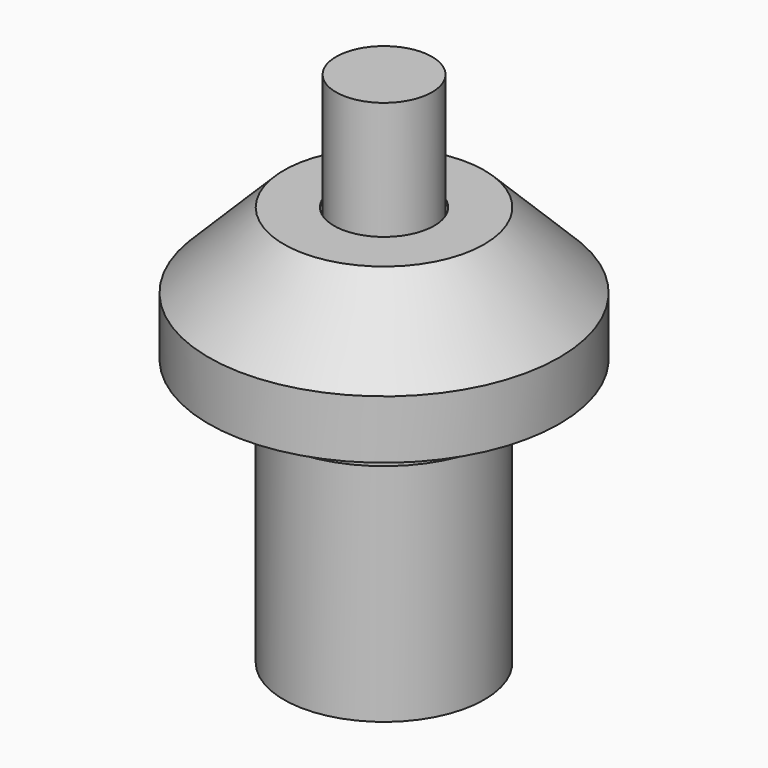
from build123d import *

# Parameters (mm, degrees)
F0_W = 9.128125
F0_H = 22.225


with BuildPart() as f1:
    # F0 (on Front) → F1 (revolve)
    with BuildSketch(Plane.XZ):
        Polygon((0, 6.35), (0, 0), (19.05, 0), (19.05, 44.45), (22.225, 44.45), (22.225, 50.8), (33.3375, 50.8), (33.3375, 61.9125), (19.05, 76.2), (9.525, 76.2), (15.875, 69.85), (15.875, 6.35), (15.478125, 6.35), align=None)
    revolve(axis=Axis((0, 0, 101.430259192), (0, 0, 1)))


with BuildPart() as f2:
    # F0 (on Front) → F2 (revolve)
    with BuildSketch(Plane.XZ):
        with Locations((4.5640625, 87.3125)):
            Rectangle(F0_W, F0_H)
        Polygon((0, 76.2), (0, 6.35), (15.478125, 6.35), (15.478125, 12.7), (9.128125, 12.7), (9.128125, 76.2), align=None)
    revolve(axis=Axis((0, 0, 101.430259192), (0, 0, 1)))


solid = Compound([f1.part, f2.part])
